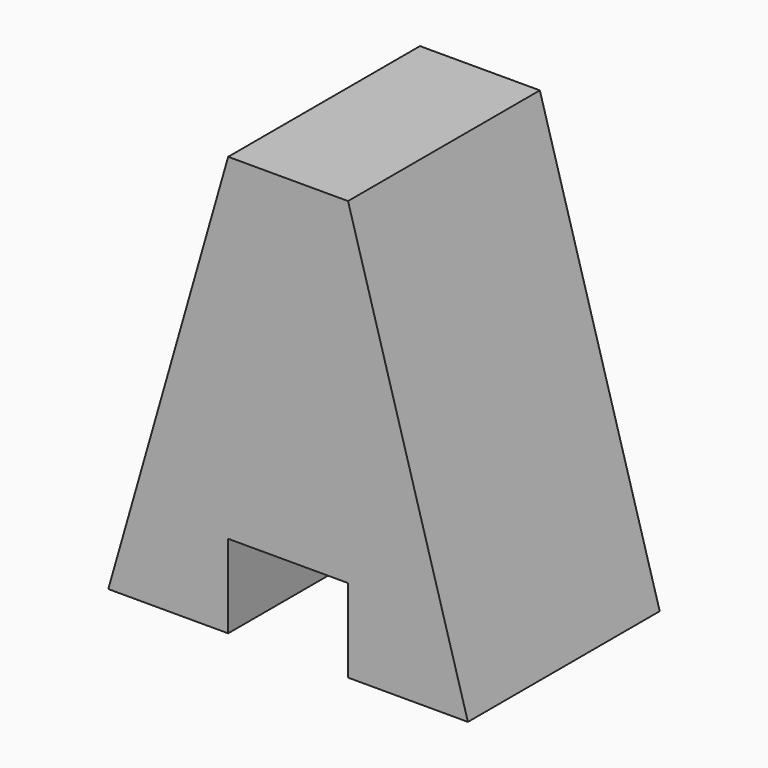
from build123d import *

# Parameters (mm, degrees)
F0_W     = 38.1
F0_H     = 44.45
F1_DEPTH = 25.4
F2_W     = 12.7
F2_H     = 8.821218
F3_DEPTH = 25.4


with BuildPart() as f1:
    # F0 (on Front) → F1 (new body)
    with BuildSketch(Plane.XZ):
        with Locations((19.05, 22.225)):
            Rectangle(F0_W, F0_H)
    extrude(amount=F1_DEPTH)

    # F2 (on face) → F3 (cut)
    with BuildSketch(Plane.XZ.offset(25.4)):
        with Locations((19.05, 4.410609)):
            Rectangle(F2_W, F2_H)
        Polygon((0, 44.45), (0, 0), (12.7, 44.45), align=None)
        Polygon((38.1, 44.45), (25.4, 44.45), (38.1, 0), align=None)
    extrude(amount=-F3_DEPTH, mode=Mode.SUBTRACT)


solid = f1.part
